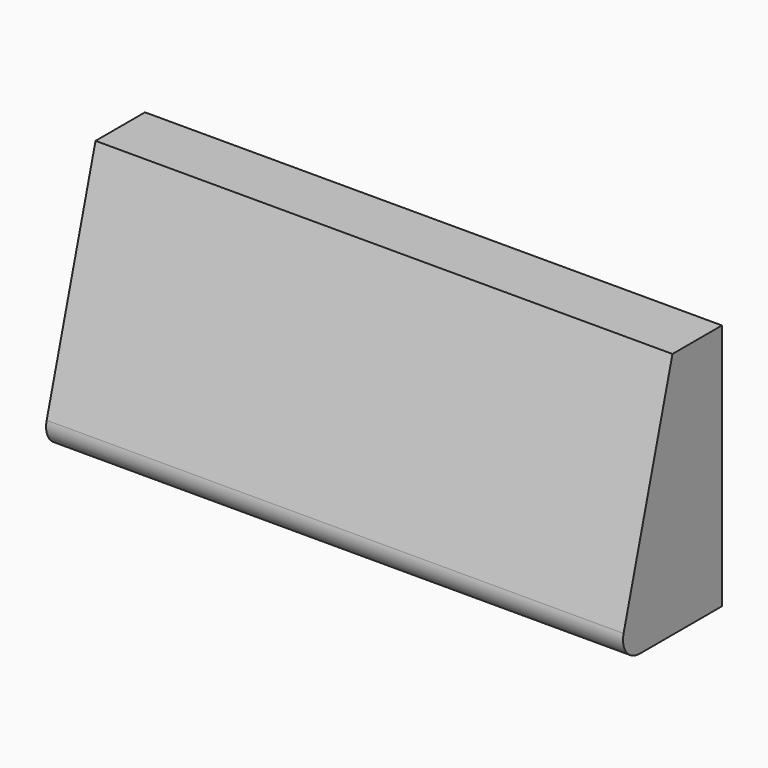
from build123d import *

# Parameters (mm, degrees)
PAD_DEPTH = 14


with BuildPart() as part:
    # Sketch → Pad (new body, symmetric)
    with BuildSketch(Plane.YZ):
        with BuildLine():
            Line((0, 0), (0, 12))
            Line((0, 12), (-3, 12))
            Line((-3, 12), (-5.963927, 1.266168))
            ThreePointArc((-5.963927, 1.266168), (-5.795666, 0.394264), (-5, 0))
            Line((-5, 0), (0, 0))
        make_face()
    extrude(amount=PAD_DEPTH, both=True)


solid = part.part
